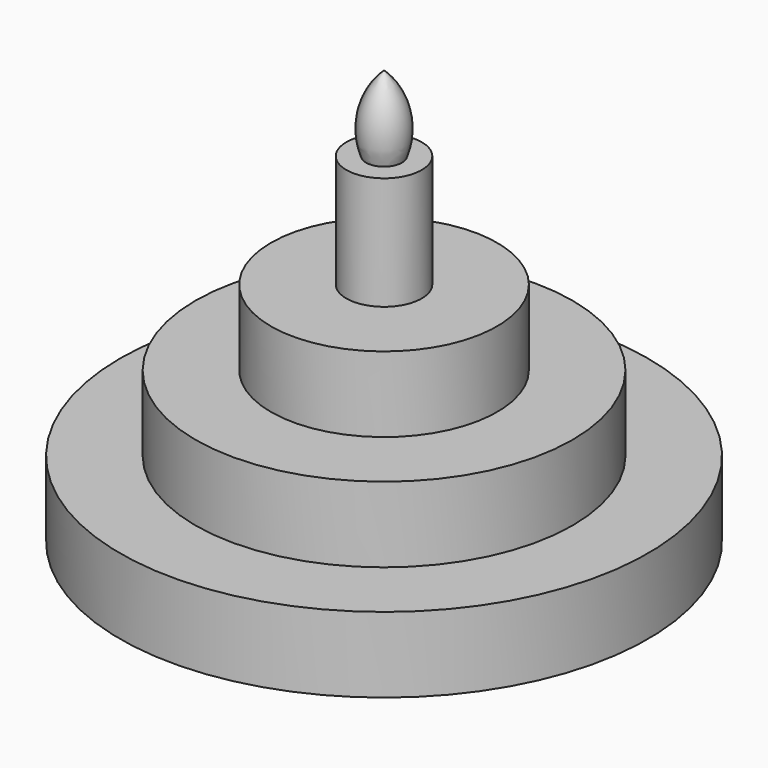
from build123d import *


with BuildPart() as f1:
    # F0 (on Front) → F1 (revolve)
    with BuildSketch(Plane.XZ):
        with BuildLine():
            Line((-17.5, 0), (0, 0))
            Line((0, 0), (0, 27.5))
            ThreePointArc((0, 27.5), (-1.362072, 25.182591), (-1.190821, 22.5))
            Line((-1.190821, 22.5), (-2.5, 22.5))
            Line((-2.5, 22.5), (-2.5, 15))
            Line((-2.5, 15), (-7.5, 15))
            Line((-7.5, 15), (-7.5, 10))
            Line((-7.5, 10), (-12.5, 10))
            Line((-12.5, 10), (-12.5, 5))
            Line((-12.5, 5), (-17.5, 5))
            Line((-17.5, 5), (-17.5, 0))
        make_face()
    revolve(axis=Axis((0, 0, 14.367294), (0, 0, 1)))


solid = f1.part
